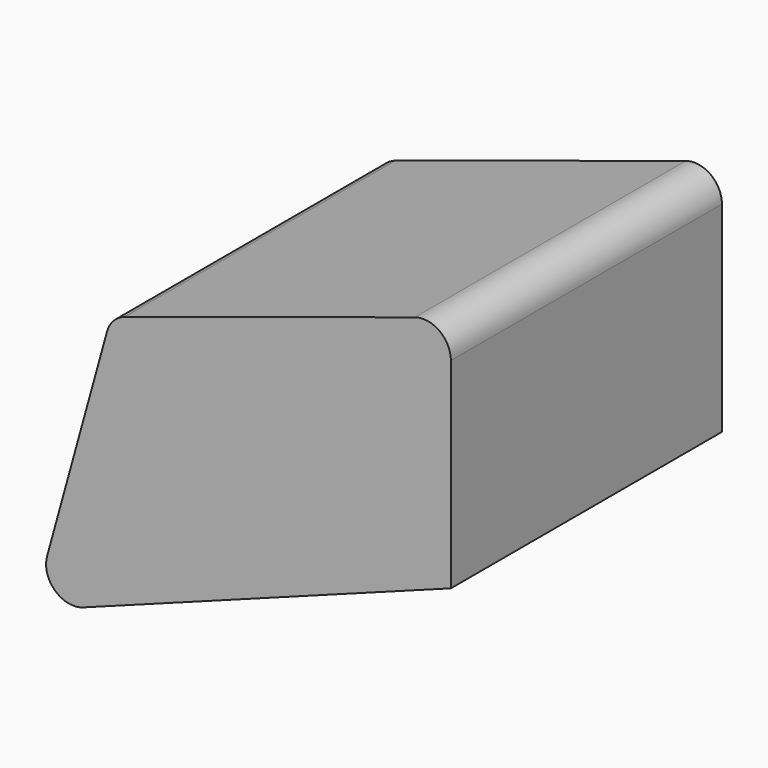
from build123d import *

# Parameters (mm, degrees)
F1_DEPTH = 80.772


with BuildPart() as f1:
    # F0 (on Front) → F1 (new body)
    with BuildSketch(Plane.XZ):
        with BuildLine():
            ThreePointArc((-31.858947, 30.049643), (-34.488394, 28.398574), (-36.020731, 25.69821))
            Line((-36.020731, 25.69821), (-50.327306, -26.16312))
            ThreePointArc((-50.327306, -26.16312), (-48.430464, -32.769343), (-41.685769, -34.091946))
            Line((-41.685769, -34.091946), (45.946311, -1.592631))
            Line((45.946311, -1.592631), (45.946311, 46.228462))
            ThreePointArc((45.946311, 46.228462), (43.231832, 51.557393), (37.325315, 52.494916))
            Line((37.325315, 52.494916), (-31.858947, 30.049643))
        make_face()
    extrude(amount=F1_DEPTH)


solid = f1.part
